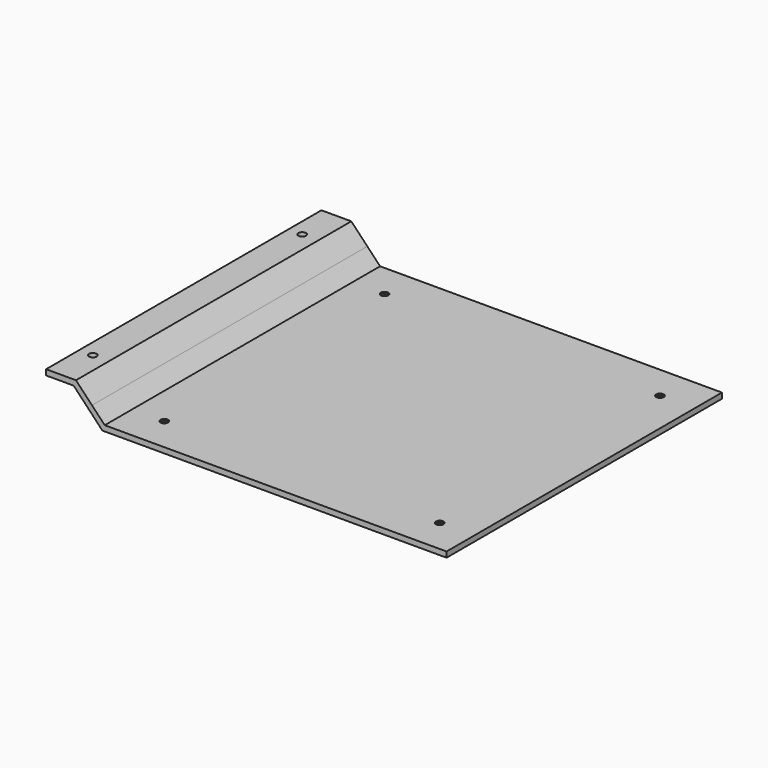
from build123d import *

# Parameters (mm, degrees)
F1_DEPTH       = 250
F3_D           = 11
F3_CSINK_D     = 22.4
F3_CSINK_ANGLE = 90
F5_D           = 11


with BuildPart() as f1:
    # F0 (on Front) → F1 (new body, symmetric)
    with BuildSketch(Plane.XZ):
        Polygon((-541.7919028829, 43.9059940034), (-520.8959514415, 21.9529970017), (-515.1013105541, 27.4686236195), (-538.3620118087, 51.9059940034), (-581.7919028829, 51.9059940034), (-581.7919028829, 43.9059940034), align=None)
        Polygon((-500, 0), (0, 0), (0, 8), (-496.5701089258, 8), (-515.1013105541, 27.4686236195), (-520.8959514415, 21.9529970017), align=None)
    extrude(amount=F1_DEPTH, both=True)

    # F3 (through all)
    with Locations(Plane(origin=(0, 0, 0), x_dir=(1, 0, 0), z_dir=(0, 0, -1))):
        with Locations((-450, 200), (-50, 200), (-50, -200), (-450, -200)):
            CounterSinkHole(F3_D / 2, F3_CSINK_D / 2, counter_sink_angle=F3_CSINK_ANGLE)

    # F5 (through all)
    with Locations(Plane(origin=(0, 0, 43.9059940034), x_dir=(1, 0, 0), z_dir=(0, 0, -1))):
        with Locations((-561.7919028829, 190), (-561.7919028829, -190)):
            Hole(F5_D / 2)


solid = f1.part
